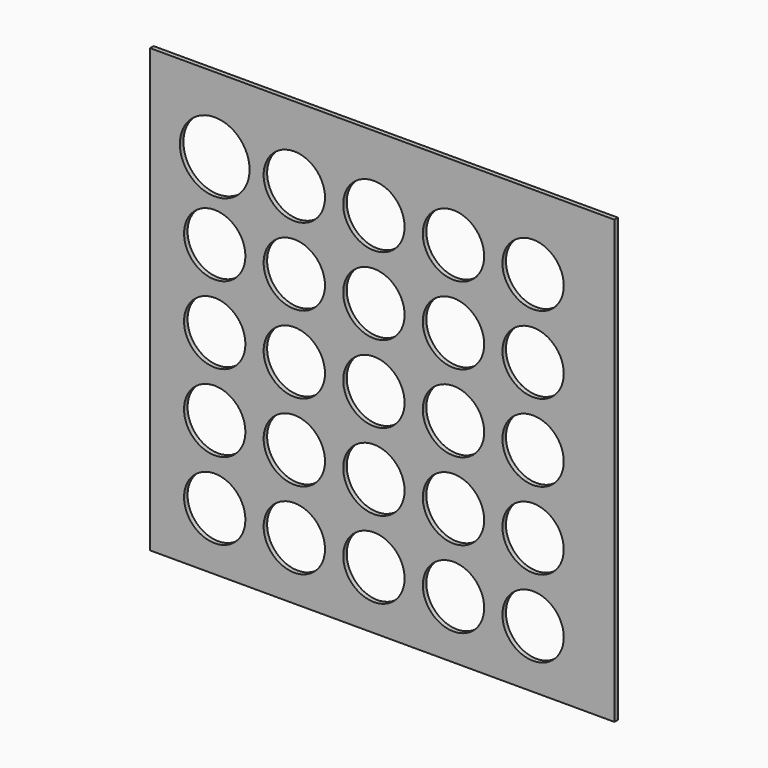
from build123d import *

# Parameters (mm, degrees)
F0_W     = 266.7
F0_H     = 254
F0_R     = 17.624016
F0_R_2   = 20.01992
F1_DEPTH = 2.54
F2_DEPTH = 1.27
F3_DEPTH = 0.254


with BuildPart() as f1:
    # F0 (on Front) → F1 (new body)
    with BuildSketch(Plane.XZ):
        with Locations((27.403467, 40.40618)):
            Rectangle(F0_W, F0_H)
        with Locations((-68.827078, -53.292752)):
            Circle(F0_R, mode=Mode.SUBTRACT)
        with Locations((-23.107078, -53.292752)):
            Circle(F0_R, mode=Mode.SUBTRACT)
        with Locations((22.612922, -53.292752)):
            Circle(F0_R, mode=Mode.SUBTRACT)
        with Locations((-68.827078, -8.842752)):
            Circle(F0_R, mode=Mode.SUBTRACT)
        with Locations((-68.827078, 35.607248)):
            Circle(F0_R, mode=Mode.SUBTRACT)
        with Locations((-23.107078, -8.842752)):
            Circle(F0_R, mode=Mode.SUBTRACT)
        with Locations((22.612922, -8.842752)):
            Circle(F0_R, mode=Mode.SUBTRACT)
        with Locations((-23.107078, 35.607248)):
            Circle(F0_R, mode=Mode.SUBTRACT)
        with Locations((22.612922, 35.607248)):
            Circle(F0_R, mode=Mode.SUBTRACT)
        with Locations((68.332922, -53.292752)):
            Circle(F0_R, mode=Mode.SUBTRACT)
        with Locations((114.052922, -53.292752)):
            Circle(F0_R, mode=Mode.SUBTRACT)
        with Locations((68.332922, -8.842752)):
            Circle(F0_R, mode=Mode.SUBTRACT)
        with Locations((68.332922, 35.607248)):
            Circle(F0_R, mode=Mode.SUBTRACT)
        with Locations((114.052922, -8.842752)):
            Circle(F0_R, mode=Mode.SUBTRACT)
        with Locations((114.052922, 35.607248)):
            Circle(F0_R, mode=Mode.SUBTRACT)
        with Locations((-68.827078, 80.057248)):
            Circle(F0_R, mode=Mode.SUBTRACT)
        with Locations((-23.107078, 80.057248)):
            Circle(F0_R, mode=Mode.SUBTRACT)
        with Locations((22.612922, 80.057248)):
            Circle(F0_R, mode=Mode.SUBTRACT)
        with Locations((-68.827078, 124.507248)):
            Circle(F0_R_2, mode=Mode.SUBTRACT)
        with Locations((-23.107078, 124.507248)):
            Circle(F0_R, mode=Mode.SUBTRACT)
        with Locations((22.612922, 124.507248)):
            Circle(F0_R, mode=Mode.SUBTRACT)
        with Locations((68.332922, 80.057248)):
            Circle(F0_R, mode=Mode.SUBTRACT)
        with Locations((114.052922, 80.057248)):
            Circle(F0_R, mode=Mode.SUBTRACT)
        with Locations((68.332922, 124.507248)):
            Circle(F0_R, mode=Mode.SUBTRACT)
        with Locations((114.052922, 124.507248)):
            Circle(F0_R, mode=Mode.SUBTRACT)
    extrude(amount=F1_DEPTH)

    # F0 (on Front) → F2 (join)
    with BuildSketch(Plane.XZ):
        with Locations((27.403467, 40.40618)):
            Rectangle(F0_W, F0_H)
        with Locations((-68.827078, -53.292752)):
            Circle(F0_R, mode=Mode.SUBTRACT)
        with Locations((-23.107078, -53.292752)):
            Circle(F0_R, mode=Mode.SUBTRACT)
        with Locations((22.612922, -53.292752)):
            Circle(F0_R, mode=Mode.SUBTRACT)
        with Locations((-68.827078, -8.842752)):
            Circle(F0_R, mode=Mode.SUBTRACT)
        with Locations((-68.827078, 35.607248)):
            Circle(F0_R, mode=Mode.SUBTRACT)
        with Locations((-23.107078, -8.842752)):
            Circle(F0_R, mode=Mode.SUBTRACT)
        with Locations((22.612922, -8.842752)):
            Circle(F0_R, mode=Mode.SUBTRACT)
        with Locations((-23.107078, 35.607248)):
            Circle(F0_R, mode=Mode.SUBTRACT)
        with Locations((22.612922, 35.607248)):
            Circle(F0_R, mode=Mode.SUBTRACT)
        with Locations((68.332922, -53.292752)):
            Circle(F0_R, mode=Mode.SUBTRACT)
        with Locations((114.052922, -53.292752)):
            Circle(F0_R, mode=Mode.SUBTRACT)
        with Locations((68.332922, -8.842752)):
            Circle(F0_R, mode=Mode.SUBTRACT)
        with Locations((68.332922, 35.607248)):
            Circle(F0_R, mode=Mode.SUBTRACT)
        with Locations((114.052922, -8.842752)):
            Circle(F0_R, mode=Mode.SUBTRACT)
        with Locations((114.052922, 35.607248)):
            Circle(F0_R, mode=Mode.SUBTRACT)
        with Locations((-68.827078, 80.057248)):
            Circle(F0_R, mode=Mode.SUBTRACT)
        with Locations((-23.107078, 80.057248)):
            Circle(F0_R, mode=Mode.SUBTRACT)
        with Locations((22.612922, 80.057248)):
            Circle(F0_R, mode=Mode.SUBTRACT)
        with Locations((-68.827078, 124.507248)):
            Circle(F0_R_2, mode=Mode.SUBTRACT)
        with Locations((-23.107078, 124.507248)):
            Circle(F0_R, mode=Mode.SUBTRACT)
        with Locations((22.612922, 124.507248)):
            Circle(F0_R, mode=Mode.SUBTRACT)
        with Locations((68.332922, 80.057248)):
            Circle(F0_R, mode=Mode.SUBTRACT)
        with Locations((114.052922, 80.057248)):
            Circle(F0_R, mode=Mode.SUBTRACT)
        with Locations((68.332922, 124.507248)):
            Circle(F0_R, mode=Mode.SUBTRACT)
        with Locations((114.052922, 124.507248)):
            Circle(F0_R, mode=Mode.SUBTRACT)
    extrude(amount=F2_DEPTH)


with BuildPart() as f3:
    # F0 (on Front) → F3 (new body)
    with BuildSketch(Plane.XZ):
        with Locations((27.403467, 40.40618)):
            Rectangle(F0_W, F0_H)
        with Locations((-68.827078, -53.292752)):
            Circle(F0_R, mode=Mode.SUBTRACT)
        with Locations((-23.107078, -53.292752)):
            Circle(F0_R, mode=Mode.SUBTRACT)
        with Locations((22.612922, -53.292752)):
            Circle(F0_R, mode=Mode.SUBTRACT)
        with Locations((-68.827078, -8.842752)):
            Circle(F0_R, mode=Mode.SUBTRACT)
        with Locations((-68.827078, 35.607248)):
            Circle(F0_R, mode=Mode.SUBTRACT)
        with Locations((-23.107078, -8.842752)):
            Circle(F0_R, mode=Mode.SUBTRACT)
        with Locations((22.612922, -8.842752)):
            Circle(F0_R, mode=Mode.SUBTRACT)
        with Locations((-23.107078, 35.607248)):
            Circle(F0_R, mode=Mode.SUBTRACT)
        with Locations((22.612922, 35.607248)):
            Circle(F0_R, mode=Mode.SUBTRACT)
        with Locations((68.332922, -53.292752)):
            Circle(F0_R, mode=Mode.SUBTRACT)
        with Locations((114.052922, -53.292752)):
            Circle(F0_R, mode=Mode.SUBTRACT)
        with Locations((68.332922, -8.842752)):
            Circle(F0_R, mode=Mode.SUBTRACT)
        with Locations((68.332922, 35.607248)):
            Circle(F0_R, mode=Mode.SUBTRACT)
        with Locations((114.052922, -8.842752)):
            Circle(F0_R, mode=Mode.SUBTRACT)
        with Locations((114.052922, 35.607248)):
            Circle(F0_R, mode=Mode.SUBTRACT)
        with Locations((-68.827078, 80.057248)):
            Circle(F0_R, mode=Mode.SUBTRACT)
        with Locations((-23.107078, 80.057248)):
            Circle(F0_R, mode=Mode.SUBTRACT)
        with Locations((22.612922, 80.057248)):
            Circle(F0_R, mode=Mode.SUBTRACT)
        with Locations((-68.827078, 124.507248)):
            Circle(F0_R_2, mode=Mode.SUBTRACT)
        with Locations((-23.107078, 124.507248)):
            Circle(F0_R, mode=Mode.SUBTRACT)
        with Locations((22.612922, 124.507248)):
            Circle(F0_R, mode=Mode.SUBTRACT)
        with Locations((68.332922, 80.057248)):
            Circle(F0_R, mode=Mode.SUBTRACT)
        with Locations((114.052922, 80.057248)):
            Circle(F0_R, mode=Mode.SUBTRACT)
        with Locations((68.332922, 124.507248)):
            Circle(F0_R, mode=Mode.SUBTRACT)
        with Locations((114.052922, 124.507248)):
            Circle(F0_R, mode=Mode.SUBTRACT)
    extrude(amount=F3_DEPTH)


solid = Compound([f1.part, f3.part])
